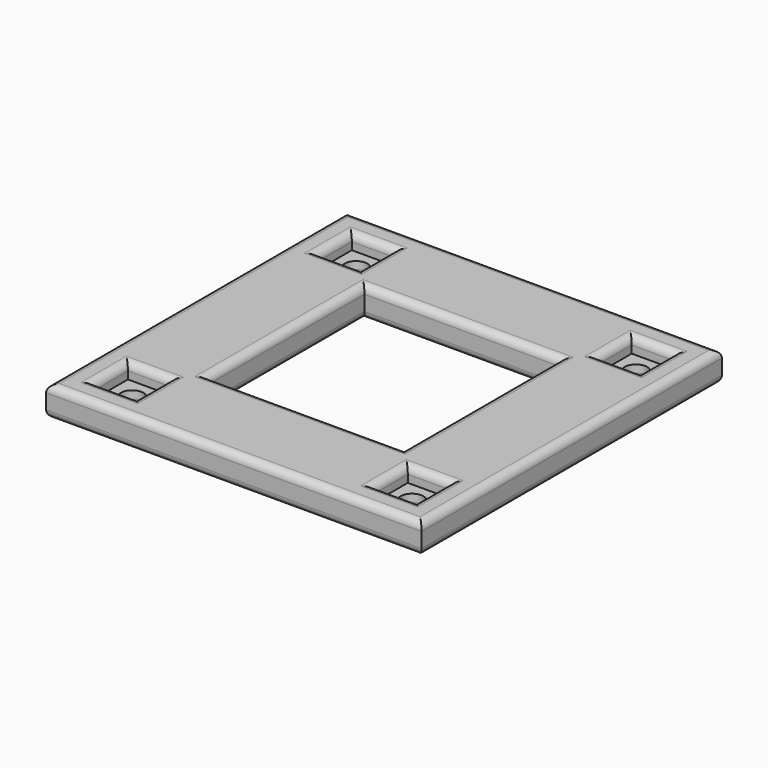
from build123d import *

# Parameters (mm, degrees)
SKETCH004_W             = 50
SKETCH004_H             = 50
PAD002_DEPTH            = 4
SKETCH005_W             = 26
SKETCH005_H             = 26
POCKET_DEPTH            = 10
SKETCH006_R             = 1.5
HOLE002_DEPTH           = 5
POLARPATTERN001_COUNT   = 4
SKETCH007_W             = 5.6
SKETCH007_H             = 5.6
POCKET001_DEPTH         = 2
POLARPATTERN002_COUNT   = 4
FILLET013_R             = 1
FILLET014_R             = 1
BODY001_PLACEMENT_ANGLE = 180


with BuildPart() as part:
    # Sketch004 → Pad002 (new body)
    with BuildSketch(Plane.XY):
        Rectangle(SKETCH004_W, SKETCH004_H)
    extrude(amount=PAD002_DEPTH)

    # Sketch005 (on Face6 of Pad002) → Pocket (cut)
    with BuildSketch(Plane.XY.offset(4)):
        Rectangle(SKETCH005_W, SKETCH005_H)
    extrude(amount=-POCKET_DEPTH, mode=Mode.SUBTRACT)

    # Sketch006 (on Face5 of Pocket) → Hole002 (cut)
    with BuildSketch(Plane.XY.offset(4)):
        with Locations((-18.636039, 18.636039)):
            Circle(SKETCH006_R)
    hole002 = extrude(amount=-HOLE002_DEPTH, mode=Mode.SUBTRACT)

    # PolarPattern001: Hole002 ×4 about axis
    polarpattern001_axis = Axis((0, 0, 4), (0, 0, 1))
    for i in range(1, POLARPATTERN001_COUNT):
        add(hole002.rotate(polarpattern001_axis, i * 360 / POLARPATTERN001_COUNT), mode=Mode.SUBTRACT)

    # Sketch007 (on Face4 of PolarPattern001) → Pocket001 (cut)
    with BuildSketch(Plane(origin=(0, 0, 0), x_dir=(1, 0, 0), z_dir=(0, 0, -1))):
        with Locations((-18.636039, 18.636039)):
            Rectangle(SKETCH007_W, SKETCH007_H)
    pocket001 = extrude(amount=-POCKET001_DEPTH, mode=Mode.SUBTRACT)

    # PolarPattern002: Pocket001 ×4 about axis
    polarpattern002_axis = Axis((0, 0, 0), (0, 0, -1))
    for i in range(1, POLARPATTERN002_COUNT):
        add(pocket001.rotate(polarpattern002_axis, i * 360 / POLARPATTERN002_COUNT), mode=Mode.SUBTRACT)

    # Fillet013
    fillet013_edges = [part.edges().sort_by_distance(p)[0] for p in [
        (-25, 0, 0),
        (0, -25, 0),
        (0, 25, 0),
        (25, 0, 0),
        (-18.636039, -21.436039, 0),
        (-15.836039, -18.636039, 0),
        (-21.436039, -18.636039, 0),
        (-18.636039, -15.836039, 0),
        (21.436039, -18.636039, 0),
        (18.636039, -15.836039, 0),
        (15.836039, -18.636039, 0),
        (18.636039, -21.436039, 0),
        (0, -13, 0),
        (13, 0, 0),
        (-13, 0, 0),
        (0, 13, 0),
        (-21.436039, 18.636039, 0),
        (-18.636039, 15.836039, 0),
        (-15.836039, 18.636039, 0),
        (-18.636039, 21.436039, 0),
        (18.636039, 21.436039, 0),
        (15.836039, 18.636039, 0),
        (18.636039, 15.836039, 0),
        (21.436039, 18.636039, 0),
    ]]
    fillet(fillet013_edges, radius=FILLET013_R)

    # Fillet014
    fillet014_edges = [part.edges().sort_by_distance(p)[0] for p in [
        (-25, 0, 4),
        (0, -25, 4),
        (0, 25, 4),
        (25, 0, 4),
        (-18.636039, -20.136039, 4),
        (20.136039, -18.636039, 4),
        (-20.136039, 18.636039, 4),
        (0, -13, 4),
        (13, 0, 4),
        (-13, 0, 4),
        (0, 13, 4),
        (18.636039, 20.136039, 4),
    ]]
    fillet(fillet014_edges, radius=FILLET014_R)


with BuildPart() as part_1:
    # Body001 placement: moved
    add(part.part.moved(Location((0, 0, 12))).rotate(Axis((0, 0, 12), (1, 0, 0)), BODY001_PLACEMENT_ANGLE))


solid = part_1.part
